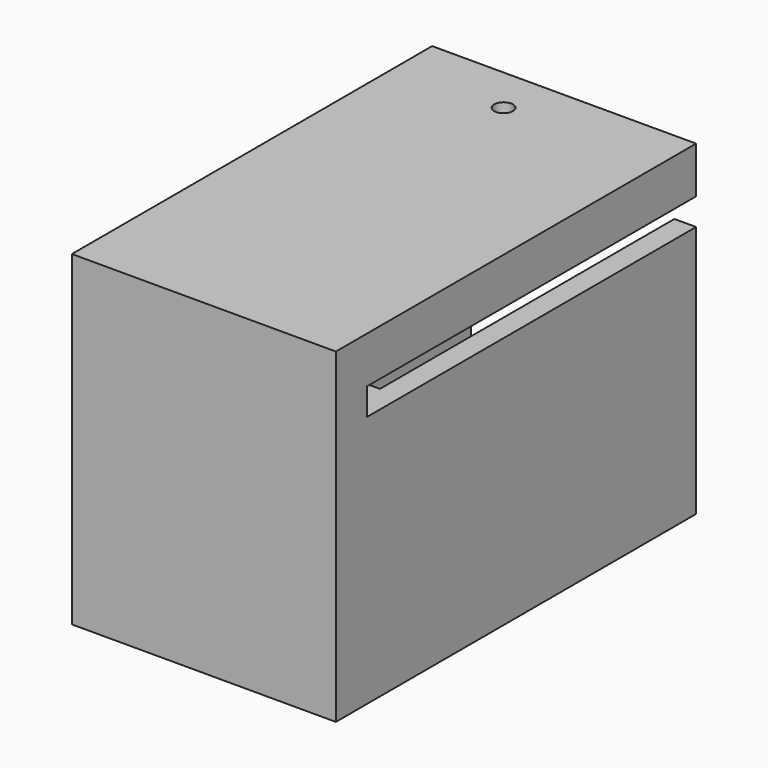
from build123d import *

# Parameters (mm, degrees)
SKETCH012_W     = 17
SKETCH012_H     = 21
PAD009_DEPTH    = 29
SKETCH013_W     = 13.1
SKETCH013_H     = 17
POCKET001_DEPTH = 23.7
SKETCH014_W     = 11.5
SKETCH014_H     = 1.2
SKETCH014_W_2   = 3.205285
SKETCH014_H_2   = 1.736194
POCKET002_DEPTH = 26.5
SKETCH016_R     = 0.6
POCKET003_DEPTH = 27


with BuildPart() as part:
    # Sketch012 → Pad009 (new body)
    with BuildSketch(Plane.XZ):
        with Locations((1.5, -2)):
            Rectangle(SKETCH012_W, SKETCH012_H)
    extrude(amount=PAD009_DEPTH)

    # Sketch013 (on Face5 of Pad009) → Pocket001 (cut)
    with BuildSketch(Plane(origin=(0, 0, 0), x_dir=(1, 0, 0), z_dir=(0, 1, 0))):
        with Locations((2.05, 2)):
            Rectangle(SKETCH013_W, SKETCH013_H)
    extrude(amount=-POCKET001_DEPTH, mode=Mode.SUBTRACT)

    # Sketch014 (on Face4 of Pocket001) → Pocket002 (cut)
    with BuildSketch(Plane(origin=(0, 0, 0), x_dir=(1, 0, 0), z_dir=(0, 1, 0))):
        Rectangle(SKETCH014_W, SKETCH014_H)
        with Locations((9.189982, -4.640042)):
            Rectangle(SKETCH014_W_2, SKETCH014_H_2)
    extrude(amount=-POCKET002_DEPTH, mode=Mode.SUBTRACT)

    # Sketch016 (on Face6 of Pocket002) → Pocket003 (cut)
    with BuildSketch(Plane(origin=(0, 0, -12.5), x_dir=(1, 0, 0), z_dir=(0, 0, -1))):
        with Locations((0, 3)):
            Circle(SKETCH016_R)
    extrude(amount=-POCKET003_DEPTH, mode=Mode.SUBTRACT)


solid = part.part
